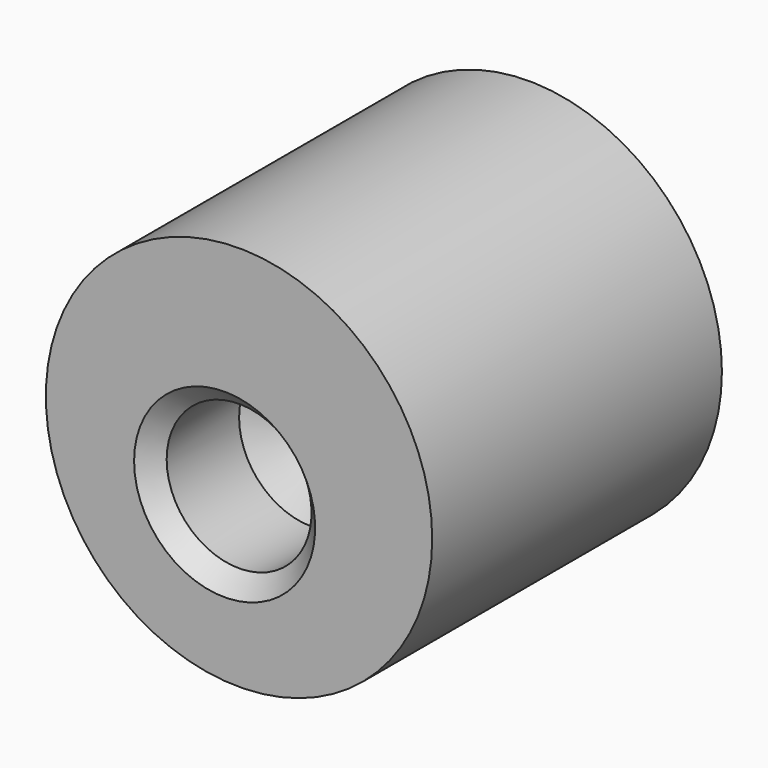
from build123d import *

# Parameters (mm, degrees)
F0_R           = 67.7437739652
F1_DEPTH       = 127
F3_D           = 50.8
F3_DEPTH       = 38.1
F3_CSINK_D     = 63.5
F3_CSINK_ANGLE = 90
F3_TIP         = 15.2618597233


with BuildPart() as f1:
    # F0 (on Front) → F1 (new body)
    with BuildSketch(Plane.XZ):
        with Locations((-21.8080106999, -48.3531389253)):
            Circle(F0_R)
    extrude(amount=F1_DEPTH)

    # F3
    with Locations(Plane.XZ.offset(127)):
        with Locations((-26.8624797463, -58.3223365247)):
            CounterSinkHole(F3_D / 2, F3_CSINK_D / 2, depth=F3_DEPTH, counter_sink_angle=F3_CSINK_ANGLE)
            with Locations((0, 0, -(F3_DEPTH + F3_TIP / 2))):  # 118° drill point
                Cone(0, F3_D / 2, F3_TIP, mode=Mode.SUBTRACT)


solid = f1.part
